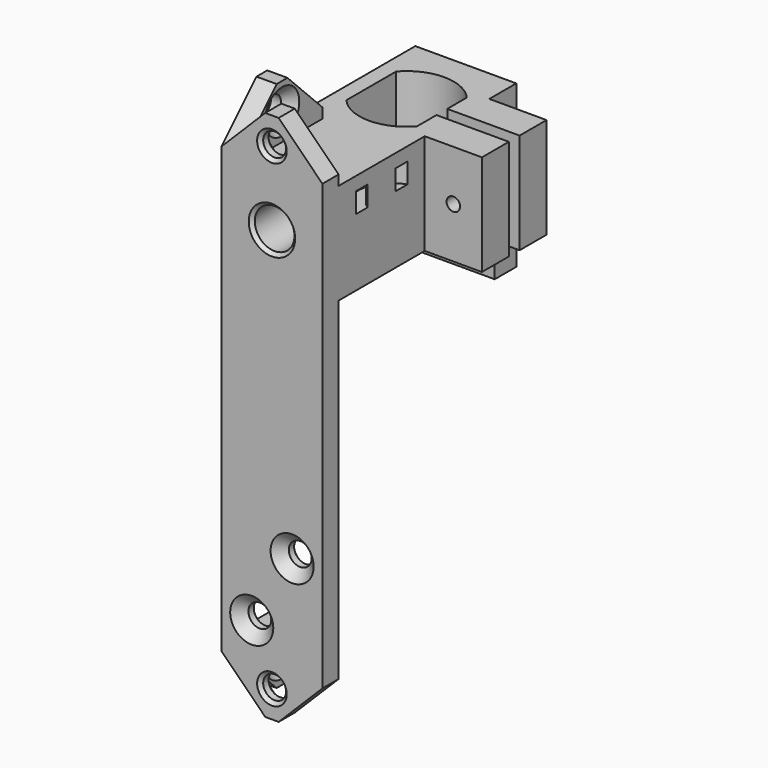
from build123d import *

# Parameters (mm, degrees)
CYLINDER102_R               = 1.7
CYLINDER102_DEPTH           = 21
BOX406008019_W              = 15
BOX406008019_H              = 3
BOX406008019_DEPTH          = 8
CHAMFER011_SIZE             = 6.5
CHAMFER012_SIZE             = 1.5
CYLINDER103_R               = 1.7
CYLINDER103_DEPTH           = 21
BOX406008020_W              = 15
BOX406008020_H              = 3
BOX406008020_DEPTH          = 8
CHAMFER013_SIZE             = 6.5
CHAMFER014_SIZE             = 1.5
CYLINDER101_R               = 2.95
CYLINDER101_DEPTH           = 20
CYLINDER100_R               = 1.7
CYLINDER100_DEPTH           = 28
CYLINDER099_R               = 3
CYLINDER099_DEPTH           = 3
CYLINDER098_R               = 5
CYLINDER098_DEPTH           = 3
CYLINDER090_R               = 1.2
CYLINDER090_DEPTH           = 13
CYLINDER091_R               = 1
CYLINDER091_DEPTH           = 12
CYLINDER091_ROLL_ANGLE      = 89.999919
CYLINDER091_PITCH_ANGLE     = -3.6e-05
CYLINDER091_PLACEMENT_ANGLE = 179.999964
CYLINDER069_R               = 2.2
CYLINDER069_DEPTH           = 12
CYLINDER069_ROLL_ANGLE      = 89.999919
CYLINDER069_PITCH_ANGLE     = -3.6e-05
CYLINDER069_PLACEMENT_ANGLE = 179.999964
CYLINDER068_R               = 1.2
CYLINDER068_DEPTH           = 12
CYLINDER068_ROLL_ANGLE      = 89.999919
CYLINDER068_PITCH_ANGLE     = -3.6e-05
CYLINDER068_PLACEMENT_ANGLE = 179.999964
BOX406016_W                 = 49
BOX406016_H                 = 2
BOX406016_DEPTH             = 32
BOX406008016_W              = 9
BOX406008016_H              = 12
BOX406008016_DEPTH          = 15
BOX406017_W                 = 16
BOX406017_H                 = 10.5
BOX406017_DEPTH             = 28
CYLINDER067_R               = 7
CYLINDER067_DEPTH           = 26
COMMON004_PLACEMENT_ANGLE   = 90
BOX406008015_W              = 15
BOX406008015_H              = 31
BOX406008015_DEPTH          = 15
BOX406008017_W              = 15
BOX406008017_H              = 4
BOX406008017_DEPTH          = 24
CYLINDER096_R               = 1.7
CYLINDER096_DEPTH           = 21
BOX_W                       = 15
BOX_H                       = 3
BOX_DEPTH                   = 8
CYLINDER097_R               = 1.7
CYLINDER097_DEPTH           = 21
BOX406008018_W              = 15
BOX406008018_H              = 3
BOX406008018_DEPTH          = 8
CHAMFER005_SIZE             = 1.5
CYLINDER093_R               = 1.7
CYLINDER093_DEPTH           = 21
CYLINDER092_R               = 1.7
CYLINDER092_DEPTH           = 21
BOX406008014_W              = 15
BOX406008014_H              = 3
BOX406008014_DEPTH          = 63
CHAMFER006_SIZE             = 1.5
CHAMFER007_SIZE             = 6.5
CHAMFER009_SIZE             = 0.5
CHAMFER010_SIZE             = 0.5
CHAMFER015_SIZE             = 0.5
CHAMFER016_SIZE             = 0.5


with BuildPart() as cylinder102:
    # Cylinder102 → Cylinder102 (new body)
    with BuildSketch(Plane(origin=(-15, -17.5, -22), x_dir=(0, 0, -1), z_dir=(1, 0, 0))):
        Circle(CYLINDER102_R)
    extrude(amount=CYLINDER102_DEPTH)


with BuildPart() as chamfer012_mount_hole:
    # Box406008019 → Box406008019 (new body)
    with BuildSketch(Plane(origin=(-4.5, -25, -26), x_dir=(0, 1, 0), z_dir=(0, 0, 1))):
        with Locations((7.5, 1.5)):
            Rectangle(BOX406008019_W, BOX406008019_H)
    extrude(amount=BOX406008019_DEPTH)

    # Cut083: cut Cylinder102
    add(cylinder102.part, mode=Mode.SUBTRACT)

    # Chamfer011
    chamfer011_edges = [chamfer012_mount_hole.edges().sort_by_distance(p)[0] for p in [
        (-6, -25, -26),
        (-6, -10, -26),
    ]]
    chamfer(chamfer011_edges, length=CHAMFER011_SIZE)

    # Chamfer012
    chamfer012_edges = [chamfer012_mount_hole.edges().sort_by_distance(p)[0] for p in [
        (-4.5, -17.5, -20.3),
    ]]
    chamfer(chamfer012_edges, length=CHAMFER012_SIZE)


with BuildPart() as cylinder103:
    # Cylinder103 → Cylinder103 (new body)
    with BuildSketch(Plane(origin=(-15, -17.5, -22), x_dir=(0, 0, -1), z_dir=(1, 0, 0))):
        Circle(CYLINDER103_R)
    extrude(amount=CYLINDER103_DEPTH)


with BuildPart() as chamfer012_mount_hole001:
    # Box406008020 → Box406008020 (new body)
    with BuildSketch(Plane(origin=(-4.5, -25, -26), x_dir=(0, 1, 0), z_dir=(0, 0, 1))):
        with Locations((7.5, 1.5)):
            Rectangle(BOX406008020_W, BOX406008020_H)
    extrude(amount=BOX406008020_DEPTH)

    # Cut084: cut Cylinder103
    add(cylinder103.part, mode=Mode.SUBTRACT)

    # Chamfer013
    chamfer013_edges = [chamfer012_mount_hole001.edges().sort_by_distance(p)[0] for p in [
        (-6, -25, -26),
        (-6, -10, -26),
    ]]
    chamfer(chamfer013_edges, length=CHAMFER013_SIZE)

    # Chamfer014
    chamfer014_edges = [chamfer012_mount_hole001.edges().sort_by_distance(p)[0] for p in [
        (-4.5, -17.5, -20.3),
    ]]
    chamfer(chamfer014_edges, length=CHAMFER014_SIZE)


with BuildPart() as fusion103077013004017019:
    # Part__Mirroring001: instance of Chamfer012 Mount Hole001
    add(chamfer012_mount_hole001.part.mirror(Plane(origin=(0, 0, 0), x_dir=(0, 1, 0), z_dir=(0, 0, 1))))


with BuildPart() as fusion103077013004017019_1:
    # Part__Mirroring001 placement: moved
    add(fusion103077013004017019.part.moved(Location((0, 0, 27))))

    # Fusion103077013004017019: union Chamfer012 Mount Hole
    add(chamfer012_mount_hole.part)


with BuildPart() as cylinder101:
    # Cylinder101 → Cylinder101 (new body)
    with BuildSketch(Plane(origin=(0, -11, 38), x_dir=(1, 0, 0), z_dir=(0, -1, 0))):
        Circle(CYLINDER101_R)
    extrude(amount=CYLINDER101_DEPTH)


with BuildPart() as fusion103077013004017018:
    # Cylinder100 → Cylinder100 (new body)
    with BuildSketch(Plane(origin=(0, 0, 38), x_dir=(1, 0, 0), z_dir=(0, -1, 0))):
        Circle(CYLINDER100_R)
    extrude(amount=CYLINDER100_DEPTH)

    # Fusion103077013004017018: union Cylinder101
    add(cylinder101.part)


with BuildPart() as cylinder099:
    # Cylinder099 → Cylinder099 (new body)
    with BuildSketch(Plane(origin=(-9, -9, 36), x_dir=(1, 0, 0), z_dir=(0, 0, 1))):
        Circle(CYLINDER099_R)
    extrude(amount=CYLINDER099_DEPTH)


with BuildPart() as cable_tie_hole:
    # Cylinder098 → Cylinder098 (new body)
    with BuildSketch(Plane(origin=(-9, -9, 36), x_dir=(1, 0, 0), z_dir=(0, 0, 1))):
        Circle(CYLINDER098_R)
    extrude(amount=CYLINDER098_DEPTH)

    # Cut081: cut Cylinder099
    add(cylinder099.part, mode=Mode.SUBTRACT)


with BuildPart() as cable_tie_hole_1:
    # Cut081 placement: moved
    add(cable_tie_hole.part.moved(Location((18, -5, 4))))


with BuildPart() as cylinder084:
    # Cylinder090 → Cylinder090 (new body)
    with BuildSketch(Plane(origin=(0, 16, 35.8), x_dir=(1, 0, 0), z_dir=(0, -1, 0))):
        Circle(CYLINDER090_R)
    extrude(amount=CYLINDER090_DEPTH)


with BuildPart() as cylinder091:
    # Cylinder091 → Cylinder091 (new body)
    with BuildSketch(Plane.XY):
        Circle(CYLINDER091_R)
    extrude(amount=CYLINDER091_DEPTH)


with BuildPart() as cylinder091_1:
    # Cylinder091 roll: moved
    add(cylinder091.part.rotate(Axis((0, 0, 0), (1, 0, 0)), CYLINDER091_ROLL_ANGLE))


with BuildPart() as cylinder091_2:
    # Cylinder091 pitch: moved
    add(cylinder091_1.part.rotate(Axis((0, 0, 0), (0, 1, 0)), CYLINDER091_PITCH_ANGLE))


with BuildPart() as cylinder091_3:
    # Cylinder091 placement: moved
    add(cylinder091_2.part.moved(Location((11.75, -12, 42.5))).rotate(Axis((11.75, -12, 42.5), (0, 0, 1)), CYLINDER091_PLACEMENT_ANGLE))


with BuildPart() as cylinder069:
    # Cylinder069 → Cylinder069 (new body)
    with BuildSketch(Plane.XY):
        Circle(CYLINDER069_R)
    extrude(amount=CYLINDER069_DEPTH)


with BuildPart() as cylinder069_1:
    # Cylinder069 roll: moved
    add(cylinder069.part.rotate(Axis((0, 0, 0), (1, 0, 0)), CYLINDER069_ROLL_ANGLE))


with BuildPart() as cylinder069_2:
    # Cylinder069 pitch: moved
    add(cylinder069_1.part.rotate(Axis((0, 0, 0), (0, 1, 0)), CYLINDER069_PITCH_ANGLE))


with BuildPart() as cylinder069_3:
    # Cylinder069 placement: moved
    add(cylinder069_2.part.moved(Location((11.75, 3, 42.5))).rotate(Axis((11.75, 3, 42.5), (0, 0, 1)), CYLINDER069_PLACEMENT_ANGLE))


with BuildPart() as fusion103077013004017011:
    # Cylinder068 → Cylinder068 (new body)
    with BuildSketch(Plane.XY):
        Circle(CYLINDER068_R)
    extrude(amount=CYLINDER068_DEPTH)


with BuildPart() as fusion103077013004017011_1:
    # Cylinder068 roll: moved
    add(fusion103077013004017011.part.rotate(Axis((0, 0, 0), (1, 0, 0)), CYLINDER068_ROLL_ANGLE))


with BuildPart() as fusion103077013004017011_2:
    # Cylinder068 pitch: moved
    add(fusion103077013004017011_1.part.rotate(Axis((0, 0, 0), (0, 1, 0)), CYLINDER068_PITCH_ANGLE))


with BuildPart() as fusion103077013004017011_3:
    # Cylinder068 placement: moved
    add(fusion103077013004017011_2.part.moved(Location((11.75, 0, 42.5))).rotate(Axis((11.75, 0, 42.5), (0, 0, 1)), CYLINDER068_PLACEMENT_ANGLE))

    # Fusion103077013: union Cylinder069
    add(cylinder069_3.part)

    # Fusion103077013004017011: union Cylinder091
    add(cylinder091_3.part)


with BuildPart() as clamp_slot:
    # Box406016 → Box406016 (new body)
    with BuildSketch(Plane(origin=(48.48, 1, 22), x_dir=(-1, 0, 0), z_dir=(0, 0, 1))):
        with Locations((24.5, 1)):
            Rectangle(BOX406016_W, BOX406016_H)
    extrude(amount=BOX406016_DEPTH)


with BuildPart() as cube351:
    # Box406008016 → Box406008016 (new body)
    with BuildSketch(Plane(origin=(7, -6, 35), x_dir=(1, 0, 0), z_dir=(0, 0, 1))):
        with Locations((4.5, 6)):
            Rectangle(BOX406008016_W, BOX406008016_H)
    extrude(amount=BOX406008016_DEPTH)


with BuildPart() as gearbox001:
    # Box406017 → Box406017 (new body)
    with BuildSketch(Plane(origin=(-8, -5.25, 18), x_dir=(1, 0, 0), z_dir=(0, 0, 1))):
        with Locations((8, 5.25)):
            Rectangle(BOX406017_W, BOX406017_H)
    extrude(amount=BOX406017_DEPTH)


with BuildPart() as motor_hole:
    # Cylinder067 → Cylinder067 (new body)
    with BuildSketch(Plane.XY.offset(20)):
        Circle(CYLINDER067_R)
    extrude(amount=CYLINDER067_DEPTH)

    # Common004: intersect gearbox001
    add(gearbox001.part, mode=Mode.INTERSECT)


with BuildPart() as motor_hole_1:
    # Common004 placement: moved
    add(motor_hole.part.moved(Location((0, 0, 5))).rotate(Axis((0, 0, 5), (0, 0, 1)), COMMON004_PLACEMENT_ANGLE))


with BuildPart() as cut075:
    # Box406008015 → Box406008015 (new body)
    with BuildSketch(Plane(origin=(-7.5, -22, 35), x_dir=(1, 0, 0), z_dir=(0, 0, 1))):
        with Locations((7.5, 15.5)):
            Rectangle(BOX406008015_W, BOX406008015_H)
    extrude(amount=BOX406008015_DEPTH)

    # Cut073: cut motor-hole
    add(motor_hole_1.part, mode=Mode.SUBTRACT)

    # Fusion103077013004017010: union Cube351
    add(cube351.part)

    # Cut074: cut clamp-slot
    add(clamp_slot.part, mode=Mode.SUBTRACT)

    # Cut075: cut Fusion103077013004017011
    add(fusion103077013004017011_3.part, mode=Mode.SUBTRACT)


with BuildPart() as cut082:
    # Box406008017 → Box406008017 (new body)
    with BuildSketch(Plane(origin=(-7.5, 7, 26), x_dir=(1, 0, 0), z_dir=(0, 0, 1))):
        with Locations((7.5, 2)):
            Rectangle(BOX406008017_W, BOX406008017_H)
    extrude(amount=BOX406008017_DEPTH)

    # Fusion103077013004017012: union Cut075
    add(cut075.part)

    # Cut076: cut Cylinder084
    add(cylinder084.part, mode=Mode.SUBTRACT)


with BuildPart() as cut082_1:
    # Cut076 placement: moved
    add(cut082.part.moved(Location((0, 0, -5))))

    # Cut082: cut Cable tie Hole
    add(cable_tie_hole_1.part, mode=Mode.SUBTRACT)


with BuildPart() as cylinder096:
    # Cylinder096 → Cylinder096 (new body)
    with BuildSketch(Plane(origin=(0, -13, 49), x_dir=(1, 0, 0), z_dir=(0, -1, 0))):
        Circle(CYLINDER096_R)
    extrude(amount=CYLINDER096_DEPTH)


with BuildPart() as cut080:
    # Box → Box (new body)
    with BuildSketch(Plane(origin=(-7.5, -25, 45), x_dir=(1, 0, 0), z_dir=(0, 0, 1))):
        with Locations((7.5, 1.5)):
            Rectangle(BOX_W, BOX_H)
    extrude(amount=BOX_DEPTH)

    # Cut080: cut Cylinder096
    add(cylinder096.part, mode=Mode.SUBTRACT)


with BuildPart() as cylinder097:
    # Cylinder097 → Cylinder097 (new body)
    with BuildSketch(Plane(origin=(0, -13, -22), x_dir=(1, 0, 0), z_dir=(0, -1, 0))):
        Circle(CYLINDER097_R)
    extrude(amount=CYLINDER097_DEPTH)


with BuildPart() as chamfer005_mount_holes:
    # Box406008018 → Box406008018 (new body)
    with BuildSketch(Plane(origin=(-7.5, -25, -26), x_dir=(1, 0, 0), z_dir=(0, 0, 1))):
        with Locations((7.5, 1.5)):
            Rectangle(BOX406008018_W, BOX406008018_H)
    extrude(amount=BOX406008018_DEPTH)

    # Cut079: cut Cylinder097
    add(cylinder097.part, mode=Mode.SUBTRACT)

    # Fusion103077013004017015: union Cut080
    add(cut080.part)

    # Chamfer005
    chamfer005_edges = [chamfer005_mount_holes.edges().sort_by_distance(p)[0] for p in [
        (-1.7, -22, -22),
        (-1.7, -22, 49),
    ]]
    chamfer(chamfer005_edges, length=CHAMFER005_SIZE)


with BuildPart() as cylinder093:
    # Cylinder093 → Cylinder093 (new body)
    with BuildSketch(Plane(origin=(3, -13, -4), x_dir=(1, 0, 0), z_dir=(0, -1, 0))):
        Circle(CYLINDER093_R)
    extrude(amount=CYLINDER093_DEPTH)


with BuildPart() as fusion103077013004017013:
    # Cylinder092 → Cylinder092 (new body)
    with BuildSketch(Plane(origin=(-3, -13, -14), x_dir=(1, 0, 0), z_dir=(0, -1, 0))):
        Circle(CYLINDER092_R)
    extrude(amount=CYLINDER092_DEPTH)

    # Fusion103077013004017013: union Cylinder093
    add(cylinder093.part)


with BuildPart() as chamfer016:
    # Box406008014 → Box406008014 (new body)
    with BuildSketch(Plane(origin=(-7.5, -25, -18), x_dir=(1, 0, 0), z_dir=(0, 0, 1))):
        with Locations((7.5, 1.5)):
            Rectangle(BOX406008014_W, BOX406008014_H)
    extrude(amount=BOX406008014_DEPTH)

    # Cut077: cut Fusion103077013004017013
    add(fusion103077013004017013.part, mode=Mode.SUBTRACT)

    # Chamfer006
    chamfer006_edges = [chamfer016.edges().sort_by_distance(p)[0] for p in [
        (-4.7, -25, -14),
        (1.3, -25, -4),
    ]]
    chamfer(chamfer006_edges, length=CHAMFER006_SIZE)

    # Fusion103077013004017016: union Chamfer005 mount holes
    add(chamfer005_mount_holes.part)

    # Chamfer007
    chamfer007_edges = [chamfer016.edges().sort_by_distance(p)[0] for p in [
        (-7.5, -23.5, -26),
        (7.5, -23.5, -26),
        (7.5, -23.5, 53),
        (-7.5, -23.5, 53),
    ]]
    chamfer(chamfer007_edges, length=CHAMFER007_SIZE)

    # Fusion103077013004017017: union Cut082
    add(cut082_1.part)

    # Chamfer009
    chamfer009_edges = [chamfer016.edges().sort_by_distance(p)[0] for p in [
        (-4.7, -22, -14),
        (1.3, -22, -4),
    ]]
    chamfer(chamfer009_edges, length=CHAMFER009_SIZE)

    # Chamfer010
    chamfer010_edges = [chamfer016.edges().sort_by_distance(p)[0] for p in [
        (-1.7, -25, -22),
        (-1.7, -25, 49),
    ]]
    chamfer(chamfer010_edges, length=CHAMFER010_SIZE)

    # Cut085: cut Fusion103077013004017018
    add(fusion103077013004017018.part, mode=Mode.SUBTRACT)

    # Fusion103077013004017020: union Fusion103077013004017019
    add(fusion103077013004017019_1.part)

    # Chamfer015
    chamfer015_edges = [chamfer016.edges().sort_by_distance(p)[0] for p in [
        (-1.7, -11, 38),
    ]]
    chamfer(chamfer015_edges, length=CHAMFER015_SIZE)

    # Chamfer016
    chamfer016_edges = [chamfer016.edges().sort_by_distance(p)[0] for p in [
        (-2.95, -25, 38),
    ]]
    chamfer(chamfer016_edges, length=CHAMFER016_SIZE)


solid = chamfer016.part
